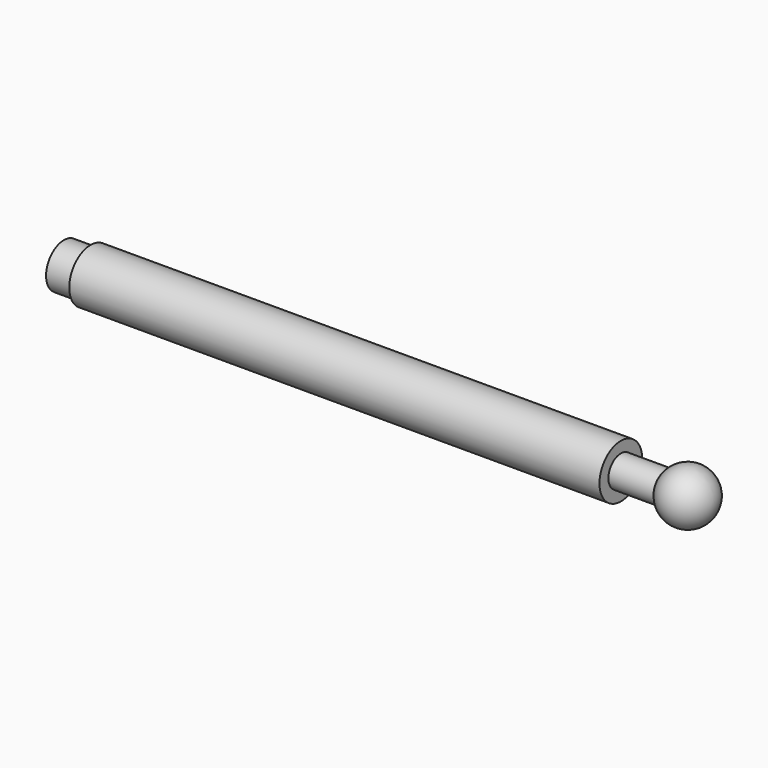
from build123d import *

# Parameters (mm, degrees)
F0_R     = 6
F1_DEPTH = 119
F2_R     = 5
F3_DEPTH = 6
F4_R     = 3.5
F5_DEPTH = 10.13


with BuildPart() as f1:
    # F0 (on Right) → F1 (new body)
    with BuildSketch(Plane.YZ):
        Circle(F0_R)
    extrude(amount=F1_DEPTH)

    # F2 (on face) → F3 (join)
    with BuildSketch(Plane(origin=(0, 0, 0), x_dir=(0, -1, 0), z_dir=(-1, 0, 0))):
        Circle(F2_R)
    extrude(amount=F3_DEPTH)

    # F4 (on face) → F5 (join)
    with BuildSketch(Plane.YZ.offset(119)):
        Circle(F4_R)
    extrude(amount=F5_DEPTH)

    # F6 (on Front) → F7 (revolve)
    with BuildSketch(Plane.XZ):
        with BuildLine():
            Line((128, 0), (140, 0))
            ThreePointArc((140, 0), (134, 6), (128, 0))
        make_face()
    revolve(axis=Axis((134, 0, 0), (1, 0, 0)))


solid = f1.part
